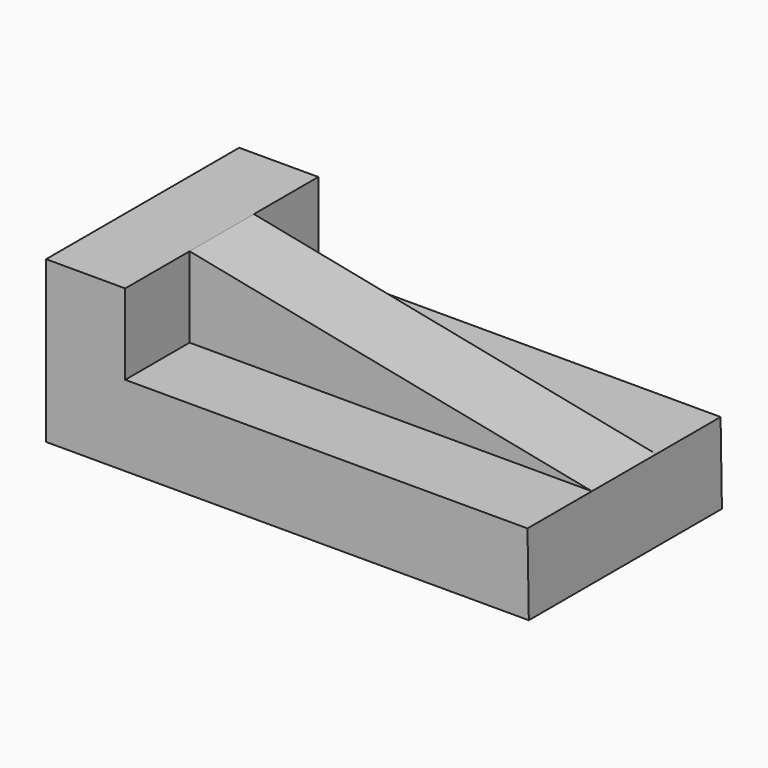
from build123d import *

# Parameters (mm, degrees)
F1_DEPTH      = 50.8
F1_DEPTH_BACK = 25.4
F2_DEPTH      = 25.4


with BuildPart() as f1:
    # F0 (on Front) → F1 (new body, two sides)
    with BuildSketch(Plane.XZ) as f1_sk:
        Polygon((-56.026979, 25.396531), (-56.026979, 50.796531), (-81.007203, 50.796531), (-81.007203, 0), (71.392797, 0), (70.973021, 25.396531), align=None)
    extrude(amount=F1_DEPTH)
    extrude(f1_sk.sketch, amount=-F1_DEPTH_BACK)

    # F0 (on Front) → F2 (join)
    with BuildSketch(Plane.XZ):
        Polygon((70.973021, 25.396531), (-56.026979, 50.796531), (-56.026979, 25.396531), align=None)
    extrude(amount=F2_DEPTH)


solid = f1.part
